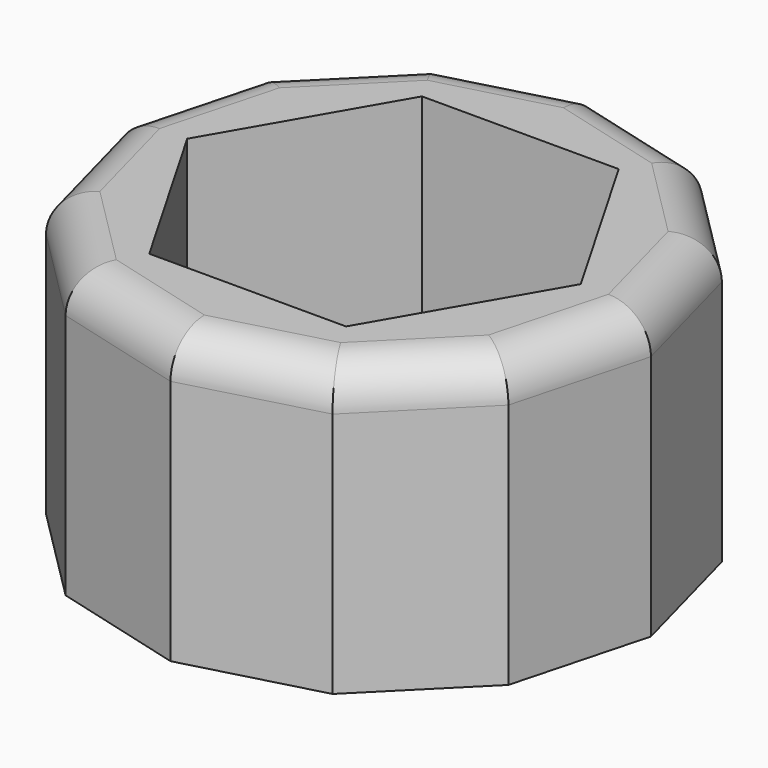
from build123d import *

# Parameters (mm, degrees)
PAD_DEPTH       = 7
POCKET_DEPTH    = 5.5
SKETCH002_R     = 2.65
POCKET001_DEPTH = 7.001
FILLET_R        = 1


with BuildPart() as part:
    # Sketch → Pad (new body)
    with BuildSketch(Plane.XY):
        Polygon((5.629165, 3.25), (3.25, 5.629165), (0, 6.5), (-3.25, 5.629165), (-5.629165, 3.25), (-6.5, 0), (-5.629165, -3.25), (-3.25, -5.629165), (0, -6.5), (3.25, -5.629165), (5.629165, -3.25), (6.5, 0), align=None)
    extrude(amount=PAD_DEPTH)

    # Sketch001 (on Face14 of Pad) → Pocket (cut)
    with BuildSketch(Plane.XY.offset(7)):
        Polygon((4.792007, 0), (2.396004, 4.15), (-2.396004, 4.15), (-4.792007, 0), (-2.396004, -4.15), (2.396004, -4.15), align=None)
    extrude(amount=-POCKET_DEPTH, mode=Mode.SUBTRACT)

    # Sketch002 (on DatumPlane) → Pocket001 (cut, through all)
    with BuildSketch(Plane(origin=(0, 0, 0), x_dir=(1, 0, 0), z_dir=(0, 0, -1))):
        Circle(SKETCH002_R)
    extrude(amount=-POCKET001_DEPTH, mode=Mode.SUBTRACT)

    # Fillet
    fillet_edges = [part.edges().sort_by_distance(p)[0] for p in [
        (6.064583, -1.625, 7),
        (6.064583, 1.625, 7),
        (4.439583, 4.439583, 7),
        (1.625, 6.064583, 7),
        (-1.625, 6.064583, 7),
        (-4.439583, 4.439583, 7),
        (-6.064583, 1.625, 7),
        (-6.064583, -1.625, 7),
        (-4.439583, -4.439583, 7),
        (-1.625, -6.064583, 7),
        (1.625, -6.064583, 7),
        (4.439583, -4.439583, 7),
    ]]
    fillet(fillet_edges, radius=FILLET_R)


solid = part.part
